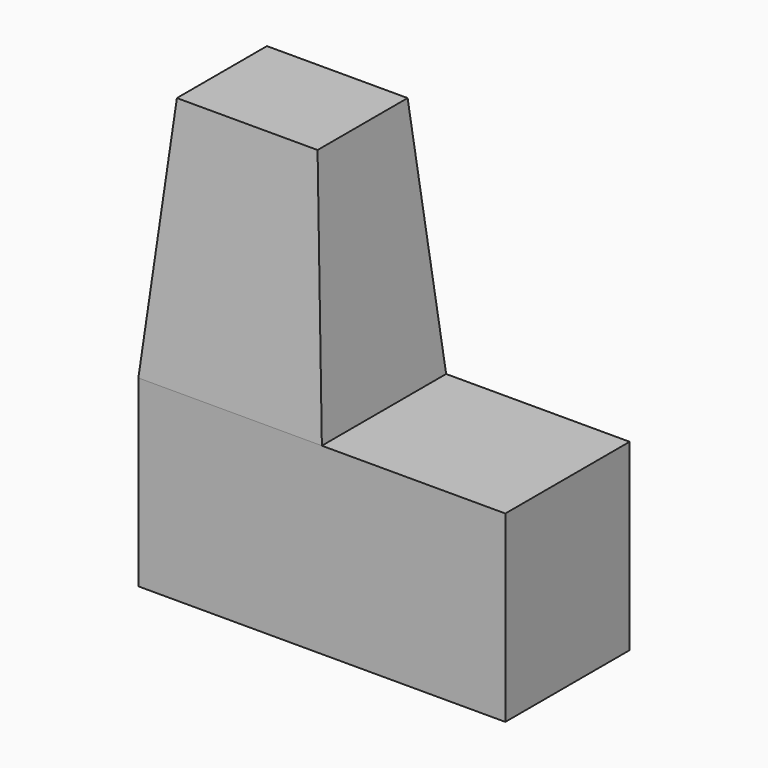
from build123d import *

# Parameters (mm, degrees)
F0_W     = 60
F0_H     = 30
F1_DEPTH = 25.4
F2_W     = 30
F2_H     = 25.4
F3_DEPTH = 40
F3_TAPER = 5


with BuildPart() as f1:
    # F0 (on Front) → F1 (new body)
    with BuildSketch(Plane.XZ):
        with Locations((-10.6705549789, -15)):
            Rectangle(F0_W, F0_H)
    extrude(amount=F1_DEPTH)

    # F2 (on face) → F3 (join)
    with BuildSketch(Plane.XY):
        with Locations((-25.6705549789, -12.7)):
            Rectangle(F2_W, F2_H)
    extrude(amount=F3_DEPTH, taper=F3_TAPER)


solid = f1.part
